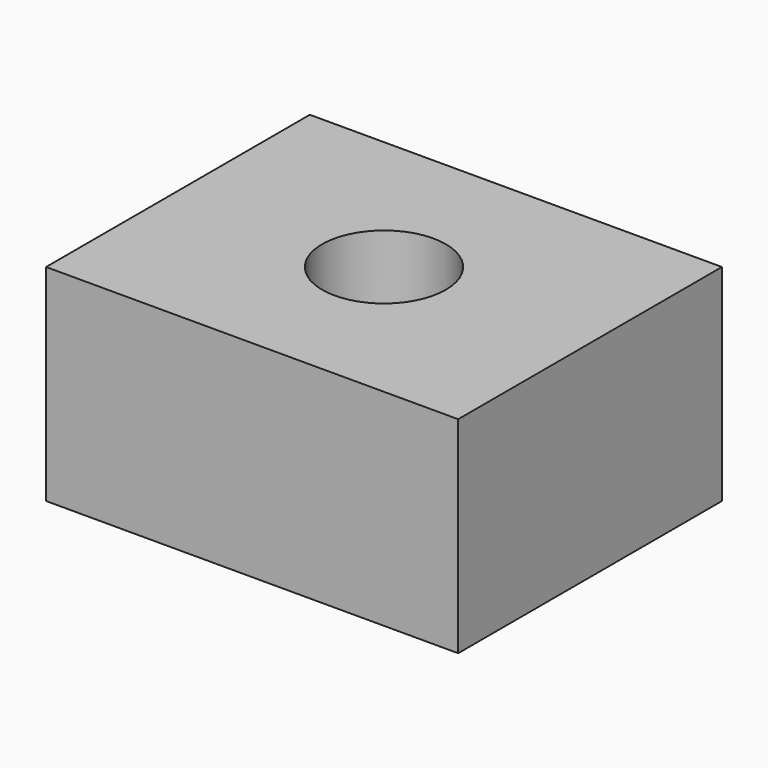
from build123d import *

# Parameters (mm, degrees)
F0_W     = 100
F0_H     = 80
F0_R     = 15
F1_DEPTH = 25
F2_DEPTH = 25


with BuildPart() as f1:
    # F0 (on Top) → F1 (new body, symmetric)
    with BuildSketch(Plane.XY):
        Rectangle(F0_W, F0_H)
        Circle(F0_R, mode=Mode.SUBTRACT)
    extrude(amount=F1_DEPTH, both=True)

    # F0 (on Top) → F2 (join)
    with BuildSketch(Plane.XY):
        Rectangle(F0_W, F0_H)
        Circle(F0_R, mode=Mode.SUBTRACT)
    extrude(amount=F2_DEPTH)


solid = f1.part
